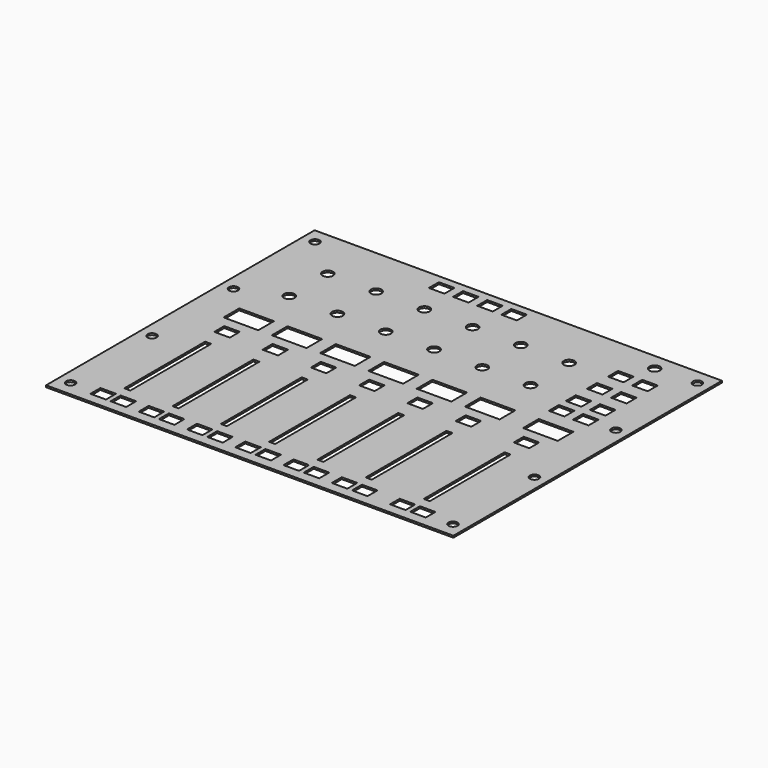
from build123d import *

# Parameters (mm, degrees)
SKETCH_W            = 270
SKETCH_H            = 222.5
SKETCH_W_2          = 4
SKETCH_H_2          = 67
SKETCH_W_3          = 10.3
SKETCH_H_3          = 8
PAD_DEPTH           = 1.2
SKETCH001_R         = 3.55
SKETCH001_W         = 4
SKETCH001_H         = 67
SKETCH001_W_2       = 23
SKETCH001_H_2       = 13
SKETCH001_W_3       = 10.3
SKETCH001_H_3       = 8.3
POCKET_DEPTH        = 5
LINEARPATTERN_COUNT = 6
LINEARPATTERN_PITCH = 32
SKETCH002_R         = 3.55
SKETCH002_W         = 23
SKETCH002_H         = 13
SKETCH002_W_2       = 10.3
SKETCH002_H_2       = 8.3
POCKET001_DEPTH     = 5
SKETCH003_R         = 3
HOLE_DEPTH          = 25
SKETCH004_W         = 10.3
SKETCH004_H         = 8.3
POCKET002_DEPTH     = 5


with BuildPart() as part:
    # Sketch → Pad (new body)
    with BuildSketch(Plane.XY):
        with Locations((-99.25, 55.15)):
            Rectangle(SKETCH_W, SKETCH_H)
        Rectangle(SKETCH_W_2, SKETCH_H_2, mode=Mode.SUBTRACT)
        with Locations((-6.7, -45.1)):
            Rectangle(SKETCH_W_3, SKETCH_H_3, mode=Mode.SUBTRACT)
        with Locations((6.7, -45.1)):
            Rectangle(SKETCH_W_3, SKETCH_H_3, mode=Mode.SUBTRACT)
    extrude(amount=PAD_DEPTH)

    # Sketch001 (on Face18 of Pad) → Pocket (cut)
    with BuildSketch(Plane.XY.offset(1.2)):
        with Locations((-38.5, 132.65)):
            Circle(SKETCH001_R)
        with Locations((-38.5, 100.65)):
            Circle(SKETCH001_R)
        with Locations((-38.5, 0)):
            Rectangle(SKETCH001_W, SKETCH001_H)
        with Locations((-38.5, 67.15)):
            Rectangle(SKETCH001_W_2, SKETCH001_H_2)
        with Locations((-45.2, -45.1)):
            Rectangle(SKETCH001_W_3, SKETCH001_H_3)
        with Locations((-31.8, -45.1)):
            Rectangle(SKETCH001_W_3, SKETCH001_H_3)
        with Locations((-38.5, 49.15)):
            Rectangle(SKETCH001_W_3, SKETCH001_H_3)
    pocket = extrude(amount=-POCKET_DEPTH, mode=Mode.SUBTRACT)

    # LinearPattern: Pocket ×6
    with Locations(*[(-i * LINEARPATTERN_PITCH, 0, 0) for i in range(1, LINEARPATTERN_COUNT)]):
        add(pocket, mode=Mode.SUBTRACT)

    # Sketch002 (on Face5 of LinearPattern) → Pocket001 (cut)
    with BuildSketch(Plane.XY.offset(1.2)):
        with Locations((0, 155.3)):
            Circle(SKETCH002_R)
        with Locations((0, 67.15)):
            Rectangle(SKETCH002_W, SKETCH002_H)
        with Locations((8, 88.3)):
            Rectangle(SKETCH002_W_2, SKETCH002_H_2)
        with Locations((-8, 88.3)):
            Rectangle(SKETCH002_W_2, SKETCH002_H_2)
        with Locations((-8, 102.3)):
            Rectangle(SKETCH002_W_2, SKETCH002_H_2)
        with Locations((8, 102.3)):
            Rectangle(SKETCH002_W_2, SKETCH002_H_2)
        with Locations((-8, 119.8)):
            Rectangle(SKETCH002_W_2, SKETCH002_H_2)
        with Locations((8, 119.8)):
            Rectangle(SKETCH002_W_2, SKETCH002_H_2)
        with Locations((8, 137.3)):
            Rectangle(SKETCH002_W_2, SKETCH002_H_2)
        with Locations((-8, 137.3)):
            Rectangle(SKETCH002_W_2, SKETCH002_H_2)
        with Locations((0, 49.15)):
            Rectangle(SKETCH002_W_2, SKETCH002_H_2)
    extrude(amount=-POCKET001_DEPTH, mode=Mode.SUBTRACT)

    # Sketch003 (on Face5 of Pocket001) → Hole (cut)
    with BuildSketch(Plane.XY.offset(1.2)):
        with Locations((-226, 156.4)):
            Circle(SKETCH003_R)
        with Locations((-226, 88.9)):
            Circle(SKETCH003_R)
        with Locations((-226, 21.4)):
            Circle(SKETCH003_R)
        with Locations((-226, -46.1)):
            Circle(SKETCH003_R)
        with Locations((27.5, -46.1)):
            Circle(SKETCH003_R)
        with Locations((27.5, 21.4)):
            Circle(SKETCH003_R)
        with Locations((27.5, 88.9)):
            Circle(SKETCH003_R)
        with Locations((27.5, 156.4)):
            Circle(SKETCH003_R)
    extrude(amount=-HOLE_DEPTH, mode=Mode.SUBTRACT)

    # Sketch004 (on Face5 of Hole) → Pocket002 (cut)
    with BuildSketch(Plane.XY.offset(1.2)):
        with Locations((-142.5, 157)):
            Rectangle(SKETCH004_W, SKETCH004_H)
        with Locations((-126.5, 157)):
            Rectangle(SKETCH004_W, SKETCH004_H)
        with Locations((-110.5, 157)):
            Rectangle(SKETCH004_W, SKETCH004_H)
        with Locations((-94.5, 157)):
            Rectangle(SKETCH004_W, SKETCH004_H)
    extrude(amount=-POCKET002_DEPTH, mode=Mode.SUBTRACT)


solid = part.part
